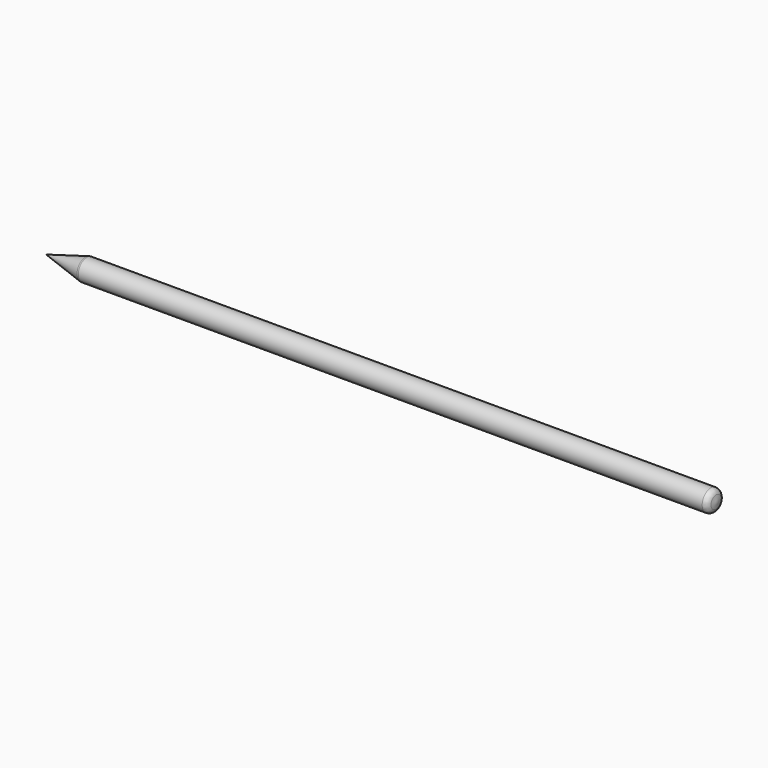
from build123d import *

# Parameters (mm, degrees)
F2_R = 2


with BuildPart() as f1:
    # F0 (on Top) → F1 (revolve)
    with BuildSketch(Plane.XY):
        Polygon((14.928203, 4), (0, 0), (250, 0), (249.294692, 4), align=None)
    revolve(axis=Axis((125, 0, 0), (1, 0, 0)))

    # F2
    f2_edges = [f1.edges().sort_by_distance(p)[0] for p in [
        (14.928203, -4, 0),
        (249.294692, -4, 0),
    ]]
    fillet(f2_edges, radius=F2_R)


solid = f1.part
